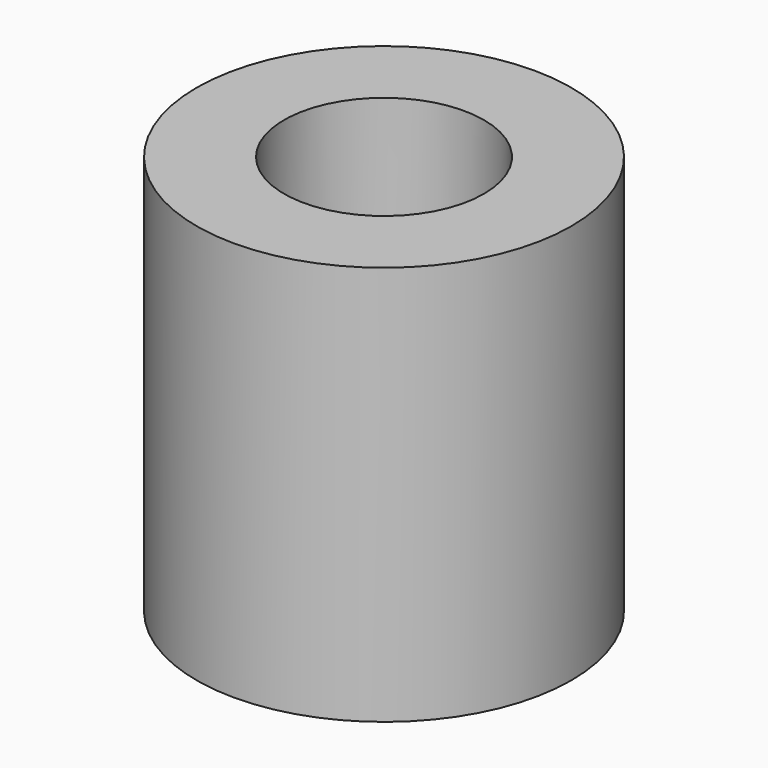
from build123d import *

# Parameters (mm, degrees)
F0_R          = 7.5
F0_R_2        = 4
F1_DEPTH      = 8
F0_R_3        = 3
F2_DEPTH      = 8
F3_DEPTH      = 1
F3_DEPTH_BACK = 1


with BuildPart() as f1:
    # F0 (on Top) → F1 (new body)
    with BuildSketch(Plane.XY):
        Circle(F0_R)
        Circle(F0_R_2, mode=Mode.SUBTRACT)
    extrude(amount=F1_DEPTH)

    # F0 (on Top) → F2 (join)
    with BuildSketch(Plane.XY):
        Circle(F0_R)
        Circle(F0_R_2, mode=Mode.SUBTRACT)
        Circle(F0_R_2)
        Circle(F0_R_3, mode=Mode.SUBTRACT)
    extrude(amount=-F2_DEPTH)

    # F0 (on Top) → F3 (join, two sides)
    with BuildSketch(Plane.XY) as f3_sk:
        Circle(F0_R_2)
        Circle(F0_R_3, mode=Mode.SUBTRACT)
        Circle(F0_R_3)
    extrude(amount=F3_DEPTH)
    extrude(f3_sk.sketch, amount=-F3_DEPTH_BACK)


solid = f1.part
